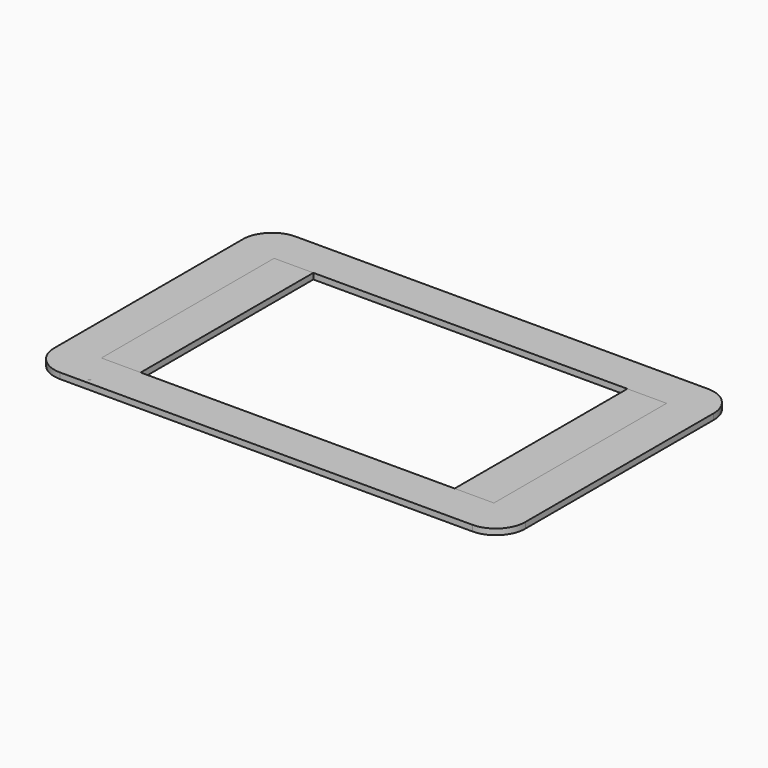
from build123d import *

# Parameters (mm, degrees)
F0_W     = 200
F0_H     = 150
F0_W_2   = 160
F0_H_2   = 110
F1_DEPTH = 3
F2_R     = 15
F3_W     = 240
F3_H     = 150
F3_W_2   = 200
F3_H_2   = 110
F4_DEPTH = 3
F5_R     = 15


with BuildPart() as f1:
    # F0 (on Top) → F1 (new body)
    with BuildSketch(Plane.XY):
        Rectangle(F0_W, F0_H)
        Rectangle(F0_W_2, F0_H_2, mode=Mode.SUBTRACT)
    extrude(amount=F1_DEPTH)

    # F2
    f2_edges = [f1.edges().sort_by_distance(p)[0] for p in [
        (-100, 75, 1.5),
        (100, 75, 1.5),
        (100, -75, 1.5),
        (-100, -75, 1.5),
    ]]
    fillet(f2_edges, radius=F2_R)


with BuildPart() as f4:
    # F3 (on Top) → F4 (new body)
    with BuildSketch(Plane.XY):
        Rectangle(F3_W, F3_H)
        Rectangle(F3_W_2, F3_H_2, mode=Mode.SUBTRACT)
    extrude(amount=F4_DEPTH)

    # F5
    f5_edges = [f4.edges().sort_by_distance(p)[0] for p in [
        (-120, 75, 1.5),
        (-120, -75, 1.5),
        (120, -75, 1.5),
        (120, 75, 1.5),
    ]]
    fillet(f5_edges, radius=F5_R)


solid = Compound([f1.part, f4.part])
